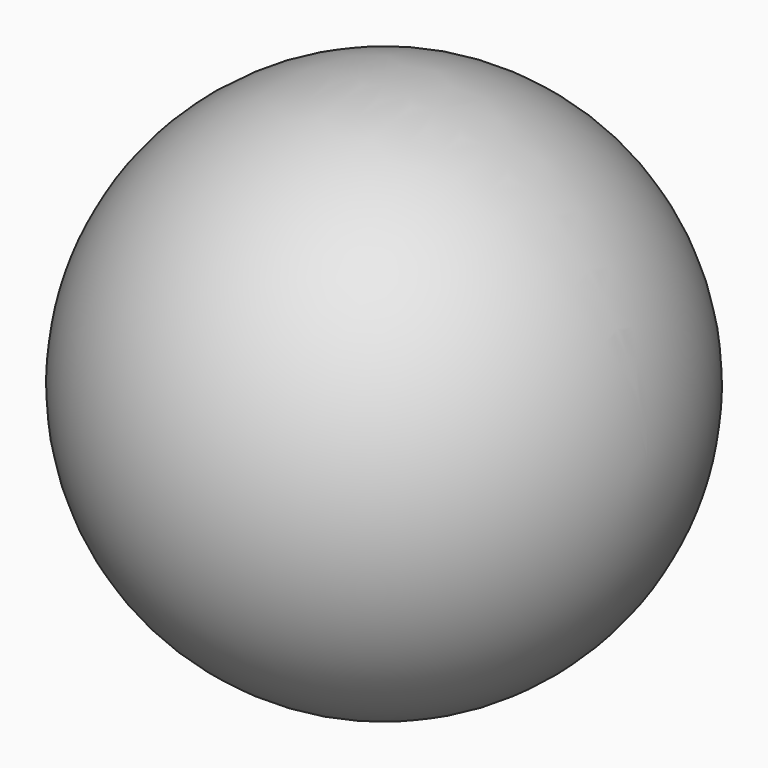
from build123d import *


with BuildPart() as f2:
    # F1 (on face) → F2 (revolve)
    with BuildSketch(Plane.XZ):
        with BuildLine():
            Line((-22.263812, 22.263812), (4.836715, 22.263812))
            Line((4.836715, 22.263812), (22.263812, 22.263812))
            ThreePointArc((22.263812, 22.263812), (0, 44.527624), (-22.263812, 22.263812))
        make_face()
    revolve(axis=Axis((-8.713549, 0, 22.263812), (1, 0, 0)))


solid = f2.part
